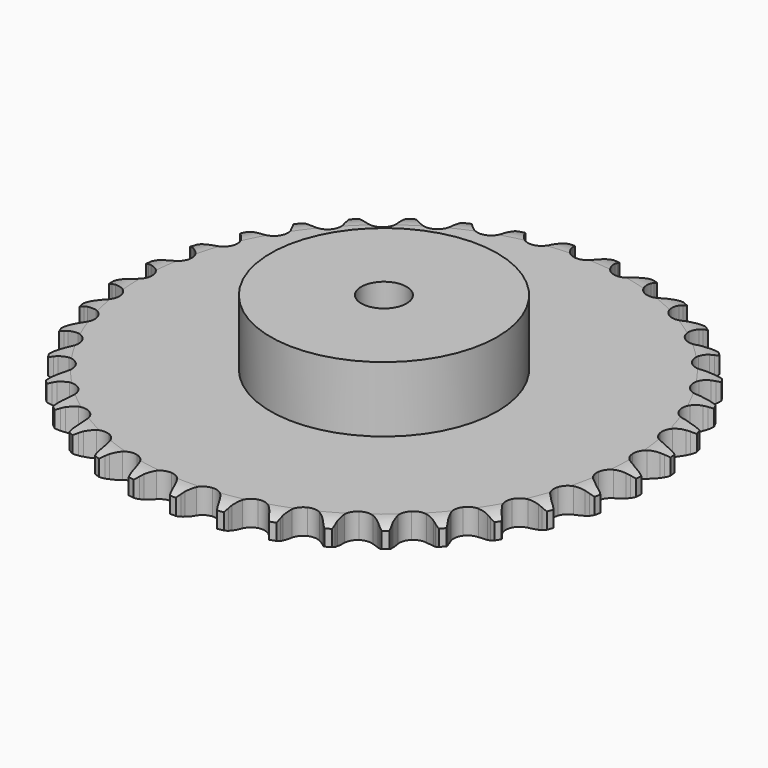
from build123d import *

# Parameters (mm, degrees)
PAD_DEPTH         = 11.1
SKETCH001_R       = 50
PAD001_DEPTH      = 40
SKETCH002_R       = 10
POCKET_DEPTH      = 0.001
POCKET_DEPTH_BACK = 40.001


with BuildPart() as part:
    # Sprocket → Pad (new body)
    with BuildSketch(Plane.XY):
        with BuildLine():
            ThreePointArc((-10.038333, 117.941871), (-8.627159, 116.235604), (-7.635, 114.256115))
            Line((-7.635, 114.256115), (-7.046288, 112.650437))
            ThreePointArc((-7.046288, 112.650437), (-6.115619, 110.585078), (-4.898442, 108.674493))
            ThreePointArc((-4.898442, 108.674493), (-2.741289, 106.862258), (0, 106.211991))
            ThreePointArc((0, 106.211991), (2.741289, 106.862258), (4.898442, 108.674493))
            ThreePointArc((4.898442, 108.674493), (6.115619, 110.585078), (7.046288, 112.650437))
            Line((7.046288, 112.650437), (7.635, 114.256115))
            ThreePointArc((7.635, 114.256115), (8.627159, 116.235604), (10.038333, 117.941871))
            ThreePointArc((10.038333, 117.941871), (11.140847, 116.021658), (11.7842, 113.902967))
            Line((11.7842, 113.902967), (12.093082, 112.220891))
            ThreePointArc((12.093082, 112.220891), (12.661318, 110.027957), (13.538096, 107.93915))
            ThreePointArc((13.538096, 107.93915), (15.357952, 105.788422), (17.949914, 104.684229))
            ThreePointArc((17.949914, 104.684229), (20.761667, 104.861861), (23.194061, 106.283469))
            Line((23.194061, 106.283469), (25.98295, 109.839234))
            ThreePointArc((25.98295, 109.839234), (26.388619, 110.59234), (26.834555, 111.322324))
            ThreePointArc((26.834555, 111.322324), (28.146978, 113.105664), (29.826213, 114.548898))
            ThreePointArc((29.826213, 114.548898), (30.588351, 112.46998), (30.86439, 110.273037))
            Line((30.86439, 110.273037), (30.884557, 108.562955))
            ThreePointArc((30.884557, 108.562955), (31.074011, 106.305532), (31.585168, 104.098595))
            ThreePointArc((31.585168, 104.098595), (33.015371, 101.671245), (35.383441, 100.144891))
            ThreePointArc((35.383441, 100.144891), (38.18477, 99.84478), (40.822429, 100.834863))
            Line((40.822429, 100.834863), (44.17213, 103.868157))
            ThreePointArc((44.17213, 103.868157), (44.699239, 104.541871), (45.262128, 105.185992))
            ThreePointArc((45.262128, 105.185992), (46.857059, 106.721879), (48.756048, 107.860562))
            ThreePointArc((48.756048, 107.860562), (49.155885, 105.682745), (49.056667, 103.470752))
            Line((49.056667, 103.470752), (48.787539, 101.78186))
            ThreePointArc((48.787539, 101.78186), (48.592762, 99.52489), (48.723592, 97.263312))
            ThreePointArc((48.723592, 97.263312), (49.722999, 94.629172), (51.799051, 92.724567))
            ThreePointArc((51.799051, 92.724567), (54.509366, 91.955347), (57.27641, 92.485421))
            Line((57.27641, 92.485421), (61.090558, 94.908982))
            ThreePointArc((61.090558, 94.908982), (61.723943, 95.483924), (62.387593, 96.02365))
            ThreePointArc((62.387593, 96.02365), (64.219148, 97.267901), (66.28326, 98.069273))
            ThreePointArc((66.28326, 98.069273), (66.309293, 95.85521), (65.837674, 93.691803))
            Line((65.837674, 93.691803), (65.286993, 92.072687))
            ThreePointArc((65.286993, 92.072687), (64.713587, 89.881099), (64.460327, 87.629941))
            ThreePointArc((64.460327, 87.629941), (65.000187, 84.86479), (66.724497, 82.636727))
            ThreePointArc((66.724497, 82.636727), (69.265828, 81.420525), (72.082653, 81.475342))
            Line((72.082653, 81.475342), (76.251521, 83.219448))
            ThreePointArc((76.251521, 83.219448), (76.972962, 83.679077), (77.718279, 84.098883))
            ThreePointArc((77.718279, 84.098883), (79.733769, 85.015702), (81.903623, 85.456711))
            ThreePointArc((81.903623, 85.456711), (81.555103, 83.270095), (80.72465, 81.21751))
            Line((80.72465, 81.21751), (79.908259, 79.71475))
            ThreePointArc((79.908259, 79.71475), (78.972721, 77.651591), (78.342655, 75.475616))
            ThreePointArc((78.342655, 75.475616), (78.407437, 72.659002), (79.7304, 70.171578))
            ThreePointArc((79.7304, 70.171578), (82.029637, 68.543383), (84.815209, 68.121366))
            Line((84.815209, 68.121366), (89.218868, 69.135843))
            ThreePointArc((89.218868, 69.135843), (90.007609, 69.466936), (90.813153, 69.754744))
            ThreePointArc((90.813153, 69.754744), (92.954595, 70.317756), (95.167768, 70.385714))
            ThreePointArc((95.167768, 70.385714), (94.454721, 68.289451), (93.289325, 66.406738))
            Line((93.289325, 66.406738), (92.230709, 65.063564))
            ThreePointArc((92.230709, 65.063564), (90.959952, 63.188189), (89.971209, 61.149995))
            ThreePointArc((89.971209, 61.149995), (89.559049, 58.362947), (90.442605, 55.687721))
            ThreePointArc((90.442605, 55.687721), (92.433604, 53.694373), (95.107786, 52.807662))
            Line((95.107786, 52.807662), (99.61955, 53.063325))
            ThreePointArc((99.61955, 53.063325), (100.4529, 53.256358), (101.295498, 53.403889))
            ThreePointArc((101.295498, 53.403889), (103.501286, 53.596896), (105.69411, 53.289849))
            ThreePointArc((105.69411, 53.289849), (104.637049, 51.344244), (103.170237, 49.685565))
            Line((103.170237, 49.685565), (101.89985, 48.540619))
            ThreePointArc((101.89985, 48.540619), (100.330432, 46.906978), (99.011454, 45.0652))
            ThreePointArc((99.011454, 45.0652), (98.134209, 42.387897), (98.552941, 39.601829))
            ThreePointArc((98.552941, 39.601829), (100.178424, 37.300673), (102.664286, 35.974778))
            Line((102.664286, 35.974778), (107.154358, 35.464272))
            ThreePointArc((107.154358, 35.464272), (108.008345, 35.513691), (108.863755, 35.5167))
            ThreePointArc((108.863755, 35.5167), (111.070434, 35.334152), (113.179825, 34.660932))
            ThreePointArc((113.179825, 34.660932), (111.80916, 32.921957), (110.083128, 31.535029))
            Line((110.083128, 31.535029), (108.637518, 30.621248))
            ThreePointArc((108.637518, 30.621248), (106.814588, 29.276339), (105.20332, 27.683961))
            ThreePointArc((105.20332, 27.683961), (103.886227, 25.193423), (103.828089, 22.376665))
            ThreePointArc((103.828089, 22.376665), (105.041293, 19.833901), (107.26732, 18.106965))
            Line((107.26732, 18.106965), (111.606531, 16.844976))
            ThreePointArc((111.606531, 16.844976), (112.456586, 16.74936), (113.3002, 16.607761))
            ThreePointArc((113.3002, 16.607761), (115.444287, 16.054908), (117.409562, 15.034883))
            ThreePointArc((117.409562, 15.034883), (115.764725, 13.552565), (113.829128, 12.477288))
            Line((113.829128, 12.477288), (112.249882, 11.820959))
            ThreePointArc((112.249882, 11.820959), (110.225883, 10.803472), (108.368678, 9.506305))
            ThreePointArc((108.368678, 9.506305), (106.649628, 7.274181), (106.116291, 4.507765))
            ThreePointArc((106.116291, 4.507765), (106.882315, 1.796544), (108.78447, -0.281752))
            Line((108.78447, -0.281752), (112.847988, -2.258919))
            ThreePointArc((112.847988, -2.258919), (113.669656, -2.49682), (114.477205, -2.778954))
            ThreePointArc((114.477205, -2.778954), (116.497019, -3.686207), (118.26164, -5.023693))
            ThreePointArc((118.26164, -5.023693), (116.389949, -6.20671), (114.300472, -6.939403))
            Line((114.300472, -6.939403), (112.633021, -7.319396))
            ThreePointArc((112.633021, -7.319396), (110.466179, -7.98019), (108.416467, -8.94483))
            ThreePointArc((108.416467, -8.94483), (106.344913, -10.854326), (105.351721, -13.490816))
            ThreePointArc((105.351721, -13.490816), (105.648528, -16.292496), (107.172088, -18.662364))
            Line((107.172088, -18.662364), (110.843013, -21.297829))
            ThreePointArc((110.843013, -21.297829), (111.612657, -21.67117), (112.36091, -22.085722))
            ThreePointArc((112.36091, -22.085722), (114.198343, -23.321276), (115.711546, -24.937746))
            ThreePointArc((115.711546, -24.937746), (113.666847, -25.787429), (111.483599, -26.156459))
            Line((111.483599, -26.156459), (109.775914, -26.249187))
            ThreePointArc((109.775914, -26.249187), (107.528565, -26.534278), (105.345311, -27.138639))
            ThreePointArc((105.345311, -27.138639), (102.980848, -28.670574), (101.556373, -31.10129))
            ThreePointArc((101.556373, -31.10129), (101.375424, -33.912831), (102.47656, -36.506094))
            Line((102.47656, -36.506094), (105.649287, -39.72404))
            ThreePointArc((105.649287, -39.72404), (106.344765, -40.222081), (107.012195, -40.757125))
            ThreePointArc((107.012195, -40.757125), (108.614389, -42.285434), (109.832641, -44.134385))
            ThreePointArc((109.832641, -44.134385), (107.673756, -44.626291), (105.459546, -44.621042))
            Line((105.459546, -44.621042), (103.760753, -44.423836))
            ThreePointArc((103.760753, -44.423836), (101.49755, -44.325022), (99.243562, -44.551718))
            ThreePointArc((99.243562, -44.551718), (96.654212, -45.662021), (94.839434, -47.817036))
            ThreePointArc((94.839434, -47.817036), (94.185935, -50.557556), (94.832968, -53.29961))
            Line((94.832968, -53.29961), (97.416223, -57.007461))
            ThreePointArc((97.416223, -57.007461), (98.017528, -57.615875), (98.584934, -58.25602))
            ThreePointArc((98.584934, -58.25602), (99.905797, -60.033118), (100.794051, -62.061359))
            ThreePointArc((100.794051, -62.061359), (98.583087, -62.181335), (96.401613, -61.801959))
            Line((96.401613, -61.801959), (94.760585, -61.320491))
            ThreePointArc((94.760585, -61.320491), (92.546635, -60.840616), (90.286757, -60.683126))
            ThreePointArc((90.286757, -60.683126), (87.54701, -61.339856), (85.394136, -63.157174))
            ThreePointArc((85.394136, -63.157174), (84.286887, -65.747832), (84.461204, -68.559793))
            Line((84.461204, -68.559793), (86.380671, -72.650883))
            ThreePointArc((86.380671, -72.650883), (86.870505, -73.352166), (87.321565, -74.078995))
            ThreePointArc((87.321565, -74.078995), (88.323097, -76.053758), (88.8558, -78.20294))
            ThreePointArc((88.8558, -78.20294), (86.656363, -77.947536), (84.570382, -77.204946))
            Line((84.570382, -77.204946), (83.034327, -76.453069))
            ThreePointArc((83.034327, -76.453069), (80.933322, -75.605936), (78.732566, -75.06879))
            ThreePointArc((78.732566, -75.06879), (75.92124, -75.253054), (73.492205, -76.680394))
            ThreePointArc((73.492205, -76.680394), (71.96306, -79.046662), (71.659646, -81.847635))
            Line((71.659646, -81.847635), (72.860105, -86.20427))
            ThreePointArc((72.860105, -86.20427), (73.224375, -86.978248), (73.546113, -87.770852))
            ThreePointArc((73.546113, -87.770852), (74.199502, -89.88647), (74.361329, -92.094765))
            ThreePointArc((74.361329, -92.094765), (72.236692, -91.471328), (70.306215, -90.386887))
            Line((70.306215, -90.386887), (68.919322, -89.38623))
            ThreePointArc((68.919322, -89.38623), (66.991705, -88.196212), (64.913383, -87.294862))
            ThreePointArc((64.913383, -87.294862), (62.111354, -87.001359), (59.476037, -87.99766))
            ThreePointArc((59.476037, -87.99766), (57.568986, -90.071464), (56.796569, -92.78087))
            Line((56.796569, -92.78087), (57.243486, -97.277718))
            ThreePointArc((57.243486, -97.277718), (57.471714, -98.102125), (57.654873, -98.937702))
            ThreePointArc((57.654873, -98.937702), (57.941323, -101.133311), (57.727618, -103.337191))
            ThreePointArc((57.727618, -103.337191), (55.738904, -102.363656), (54.019466, -100.968562))
            Line((54.019466, -100.968562), (52.821634, -99.747913))
            ThreePointArc((52.821634, -99.747913), (51.122858, -98.249243), (49.22676, -97.00962))
            ThreePointArc((49.22676, -97.00962), (46.514638, -96.246794), (43.748852, -96.783393))
            ThreePointArc((43.748852, -96.783393), (41.518757, -98.505074), (40.299559, -101.044969))
            Line((40.299559, -101.044969), (39.980077, -105.552662))
            ThreePointArc((39.980077, -105.552662), (40.065696, -106.403782), (40.105007, -107.258294))
            ThreePointArc((40.105007, -107.258294), (40.016277, -109.470732), (39.433189, -111.606794))
            ThreePointArc((39.433189, -111.606794), (37.637608, -110.311169), (36.178675, -108.645555))
            Line((36.178675, -108.645555), (35.204364, -107.240029))
            ThreePointArc((35.204364, -107.240029), (33.783299, -105.475822), (32.123972, -103.933588))
            ThreePointArc((32.123972, -103.933588), (29.57978, -102.723383), (26.763092, -102.784843))
            ThreePointArc((26.763092, -102.784843), (24.274109, -104.104872), (22.643204, -106.402188))
            Line((22.643204, -106.402188), (21.566513, -110.791049))
            ThreePointArc((21.566513, -110.791049), (21.507061, -111.644396), (21.401393, -112.49326))
            ThreePointArc((21.401393, -112.49326), (20.940036, -114.658879), (20.004339, -116.665674))
            ThreePointArc((20.004339, -116.665674), (18.453548, -115.08523), (17.29709, -113.197013))
            Line((17.29709, -113.197013), (16.574328, -111.647045))
            ThreePointArc((16.574328, -111.647045), (15.471857, -109.668053), (14.097036, -107.867575))
            ThreePointArc((14.097036, -107.867575), (11.793966, -106.244808), (9.007406, -105.829361))
            ThreePointArc((9.007406, -105.829361), (6.33114, -106.709763), (4.335445, -108.698409))
            Line((4.335445, -108.698409), (2.532521, -112.842179))
            ThreePointArc((2.532521, -112.842179), (2.329707, -113.673204), (2.082101, -114.492))
            ThreePointArc((2.082101, -114.492), (1.261388, -116.548498), (0, -118.368294))
            ThreePointArc((0, -118.368294), (-1.261388, -116.548498), (-2.082101, -114.492))
            Line((-2.082101, -114.492), (-2.532521, -112.842179))
            ThreePointArc((-2.532521, -112.842179), (-3.284682, -110.705335), (-4.335445, -108.698409))
            ThreePointArc((-4.335445, -108.698409), (-6.33114, -106.709763), (-9.007406, -105.829361))
            ThreePointArc((-9.007406, -105.829361), (-11.793966, -106.244808), (-14.097036, -107.867575))
            Line((-14.097036, -107.867575), (-16.574328, -111.647045))
            ThreePointArc((-16.574328, -111.647045), (-16.914668, -112.431841), (-17.29709, -113.197013))
            ThreePointArc((-17.29709, -113.197013), (-18.453548, -115.08523), (-20.004339, -116.665674))
            ThreePointArc((-20.004339, -116.665674), (-20.940036, -114.658879), (-21.401393, -112.49326))
            Line((-21.401393, -112.49326), (-21.566513, -110.791049))
            ThreePointArc((-21.566513, -110.791049), (-21.946728, -108.557825), (-22.643204, -106.402188))
            ThreePointArc((-22.643204, -106.402188), (-24.274109, -104.104872), (-26.763092, -102.784843))
            ThreePointArc((-26.763092, -102.784843), (-29.57978, -102.723383), (-32.123972, -103.933588))
            Line((-32.123972, -103.933588), (-35.204364, -107.240029))
            ThreePointArc((-35.204364, -107.240029), (-35.67244, -107.956018), (-36.178675, -108.645555))
            ThreePointArc((-36.178675, -108.645555), (-37.637608, -110.311169), (-39.433189, -111.606794))
            ThreePointArc((-39.433189, -111.606794), (-40.016277, -109.470732), (-40.105007, -107.258294))
            Line((-40.105007, -107.258294), (-39.980077, -105.552662))
            ThreePointArc((-39.980077, -105.552662), (-39.977405, -103.287305), (-40.299559, -101.044969))
            ThreePointArc((-40.299559, -101.044969), (-41.518757, -98.505074), (-43.748852, -96.783393))
            ThreePointArc((-43.748852, -96.783393), (-46.514638, -96.246794), (-49.22676, -97.00962))
            Line((-49.22676, -97.00962), (-52.821634, -99.747913))
            ThreePointArc((-52.821634, -99.747913), (-53.40398, -100.374498), (-54.019466, -100.968562))
            ThreePointArc((-54.019466, -100.968562), (-55.738904, -102.363656), (-57.727618, -103.337191))
            ThreePointArc((-57.727618, -103.337191), (-57.941323, -101.133311), (-57.654873, -98.937702))
            Line((-57.654873, -98.937702), (-57.243486, -97.277718))
            ThreePointArc((-57.243486, -97.277718), (-56.858006, -95.045396), (-56.796569, -92.78087))
            ThreePointArc((-56.796569, -92.78087), (-57.568986, -90.071464), (-59.476037, -87.99766))
            ThreePointArc((-59.476037, -87.99766), (-62.111354, -87.001359), (-64.913383, -87.294862))
            Line((-64.913383, -87.294862), (-68.919322, -89.38623))
            ThreePointArc((-68.919322, -89.38623), (-69.599185, -89.905385), (-70.306215, -90.386887))
            ThreePointArc((-70.306215, -90.386887), (-72.236692, -91.471328), (-74.361329, -92.094765))
            ThreePointArc((-74.361329, -92.094765), (-74.199502, -89.88647), (-73.546113, -87.770852))
            Line((-73.546113, -87.770852), (-72.860105, -86.20427))
            ThreePointArc((-72.860105, -86.20427), (-72.102905, -84.069205), (-71.659646, -81.847635))
            ThreePointArc((-71.659646, -81.847635), (-71.96306, -79.046662), (-73.492205, -76.680394))
            ThreePointArc((-73.492205, -76.680394), (-75.92124, -75.253054), (-78.732566, -75.06879))
            Line((-78.732566, -75.06879), (-83.034327, -76.453069))
            ThreePointArc((-83.034327, -76.453069), (-83.792148, -76.849859), (-84.570382, -77.204946))
            ThreePointArc((-84.570382, -77.204946), (-86.656363, -77.947536), (-88.8558, -78.20294))
            ThreePointArc((-88.8558, -78.20294), (-88.323097, -76.053758), (-87.321565, -74.078995))
            Line((-87.321565, -74.078995), (-86.380671, -72.650883))
            ThreePointArc((-86.380671, -72.650883), (-85.273535, -70.674496), (-84.461204, -68.559793))
            ThreePointArc((-84.461204, -68.559793), (-84.286887, -65.747832), (-85.394136, -63.157174))
            ThreePointArc((-85.394136, -63.157174), (-87.54701, -61.339856), (-90.286757, -60.683126))
            Line((-90.286757, -60.683126), (-94.760585, -61.320491))
            ThreePointArc((-94.760585, -61.320491), (-95.574563, -61.583502), (-96.401613, -61.801959))
            ThreePointArc((-96.401613, -61.801959), (-98.583087, -62.181335), (-100.794051, -62.061359))
            ThreePointArc((-100.794051, -62.061359), (-99.905797, -60.033118), (-98.584934, -58.25602))
            Line((-98.584934, -58.25602), (-97.416223, -57.007461))
            ThreePointArc((-97.416223, -57.007461), (-95.991001, -55.24661), (-94.832968, -53.29961))
            ThreePointArc((-94.832968, -53.29961), (-94.185935, -50.557556), (-94.839434, -47.817036))
            ThreePointArc((-94.839434, -47.817036), (-96.654212, -45.662021), (-99.243562, -44.551718))
            Line((-99.243562, -44.551718), (-103.760753, -44.423836))
            ThreePointArc((-103.760753, -44.423836), (-104.607472, -44.5455), (-105.459546, -44.621042))
            ThreePointArc((-105.459546, -44.621042), (-107.673756, -44.626291), (-109.832641, -44.134385))
            ThreePointArc((-109.832641, -44.134385), (-108.614389, -42.285434), (-107.012195, -40.757125))
            Line((-107.012195, -40.757125), (-105.649287, -39.72404))
            ThreePointArc((-105.649287, -39.72404), (-103.94698, -38.22938), (-102.47656, -36.506094))
            ThreePointArc((-102.47656, -36.506094), (-101.375424, -33.912831), (-101.556373, -31.10129))
            ThreePointArc((-101.556373, -31.10129), (-102.980848, -28.670574), (-105.345311, -27.138639))
            Line((-105.345311, -27.138639), (-109.775914, -26.249187))
            ThreePointArc((-109.775914, -26.249187), (-110.631015, -26.226005), (-111.483599, -26.156459))
            ThreePointArc((-111.483599, -26.156459), (-113.666847, -25.787429), (-115.711546, -24.937746))
            ThreePointArc((-115.711546, -24.937746), (-114.198343, -23.321276), (-112.36091, -22.085722))
            Line((-112.36091, -22.085722), (-110.843013, -21.297829))
            ThreePointArc((-110.843013, -21.297829), (-108.912594, -20.112361), (-107.172088, -18.662364))
            ThreePointArc((-107.172088, -18.662364), (-105.648528, -16.292496), (-105.351721, -13.490816))
            ThreePointArc((-105.351721, -13.490816), (-106.344913, -10.854326), (-108.416467, -8.94483))
            Line((-108.416467, -8.94483), (-112.633021, -7.319396))
            ThreePointArc((-112.633021, -7.319396), (-113.471905, -7.152035), (-114.300472, -6.939403))
            ThreePointArc((-114.300472, -6.939403), (-116.389949, -6.20671), (-118.26164, -5.023693))
            ThreePointArc((-118.26164, -5.023693), (-116.497019, -3.686207), (-114.477205, -2.778954))
            Line((-114.477205, -2.778954), (-112.847988, -2.258919))
            ThreePointArc((-112.847988, -2.258919), (-110.744991, -1.416745), (-108.78447, -0.281752))
            ThreePointArc((-108.78447, -0.281752), (-106.882315, 1.796544), (-106.116291, 4.507765))
            ThreePointArc((-106.116291, 4.507765), (-106.649628, 7.274181), (-108.368678, 9.506305))
            Line((-108.368678, 9.506305), (-112.249882, 11.820959))
            ThreePointArc((-112.249882, 11.820959), (-113.048415, 12.127685), (-113.829128, 12.477288))
            ThreePointArc((-113.829128, 12.477288), (-115.764725, 13.552565), (-117.409562, 15.034883))
            ThreePointArc((-117.409562, 15.034883), (-115.444287, 16.054908), (-113.3002, 16.607761))
            Line((-113.3002, 16.607761), (-111.606531, 16.844976))
            ThreePointArc((-111.606531, 16.844976), (-109.391456, 17.319628), (-107.26732, 18.106965))
            ThreePointArc((-107.26732, 18.106965), (-105.041293, 19.833901), (-103.828089, 22.376665))
            ThreePointArc((-103.828089, 22.376665), (-103.886227, 25.193423), (-105.20332, 27.683961))
            Line((-105.20332, 27.683961), (-108.637518, 30.621248))
            ThreePointArc((-108.637518, 30.621248), (-109.372728, 31.058514), (-110.083128, 31.535029))
            ThreePointArc((-110.083128, 31.535029), (-111.80916, 32.921957), (-113.179825, 34.660932))
            ThreePointArc((-113.179825, 34.660932), (-111.070434, 35.334152), (-108.863755, 35.5167))
            Line((-108.863755, 35.5167), (-107.154358, 35.464272))
            ThreePointArc((-107.154358, 35.464272), (-104.890928, 35.557747), (-102.664286, 35.974778))
            ThreePointArc((-102.664286, 35.974778), (-100.178424, 37.300673), (-98.552941, 39.601829))
            ThreePointArc((-98.552941, 39.601829), (-98.134209, 42.387897), (-99.011454, 45.0652))
            Line((-99.011454, 45.0652), (-101.89985, 48.540619))
            ThreePointArc((-101.89985, 48.540619), (-102.550586, 49.095847), (-103.170237, 49.685565))
            ThreePointArc((-103.170237, 49.685565), (-104.637049, 51.344244), (-105.69411, 53.289849))
            ThreePointArc((-105.69411, 53.289849), (-103.501286, 53.596896), (-101.295498, 53.403889))
            Line((-101.295498, 53.403889), (-99.61955, 53.063325))
            ThreePointArc((-99.61955, 53.063325), (-97.37288, 52.772934), (-95.107786, 52.807662))
            ThreePointArc((-95.107786, 52.807662), (-92.433604, 53.694373), (-90.442605, 55.687721))
            ThreePointArc((-90.442605, 55.687721), (-89.559049, 58.362947), (-89.971209, 61.149995))
            Line((-89.971209, 61.149995), (-92.230709, 65.063564))
            ThreePointArc((-92.230709, 65.063564), (-92.778251, 65.720781), (-93.289325, 66.406738))
            ThreePointArc((-93.289325, 66.406738), (-94.454721, 68.289451), (-95.167768, 70.385714))
            ThreePointArc((-95.167768, 70.385714), (-92.954595, 70.317756), (-90.813153, 69.754744))
            Line((-90.813153, 69.754744), (-89.218868, 69.135843))
            ThreePointArc((-89.218868, 69.135843), (-87.05359, 68.46994), (-84.815209, 68.121366))
            ThreePointArc((-84.815209, 68.121366), (-82.029637, 68.543383), (-79.7304, 70.171578))
            ThreePointArc((-79.7304, 70.171578), (-78.407437, 72.659002), (-78.342655, 75.475616))
            Line((-78.342655, 75.475616), (-79.908259, 79.71475))
            ThreePointArc((-79.908259, 79.71475), (-80.336854, 80.455048), (-80.72465, 81.21751))
            ThreePointArc((-80.72465, 81.21751), (-81.555103, 83.270095), (-81.903623, 85.456711))
            ThreePointArc((-81.903623, 85.456711), (-79.733769, 85.015702), (-77.718279, 84.098883))
            Line((-77.718279, 84.098883), (-76.251521, 83.219448))
            ThreePointArc((-76.251521, 83.219448), (-74.229928, 82.19719), (-72.082653, 81.475342))
            ThreePointArc((-72.082653, 81.475342), (-69.265828, 81.420525), (-66.724497, 82.636727))
            ThreePointArc((-66.724497, 82.636727), (-65.000187, 84.86479), (-64.460327, 87.629941))
            Line((-64.460327, 87.629941), (-65.286993, 92.072687))
            ThreePointArc((-65.286993, 92.072687), (-65.584313, 92.874769), (-65.837674, 93.691803))
            ThreePointArc((-65.837674, 93.691803), (-66.309293, 95.85521), (-66.28326, 98.069273))
            ThreePointArc((-66.28326, 98.069273), (-64.219148, 97.267901), (-62.387593, 96.02365))
            Line((-62.387593, 96.02365), (-61.090558, 94.908982))
            ThreePointArc((-61.090558, 94.908982), (-59.270805, 93.559777), (-57.27641, 92.485421))
            ThreePointArc((-57.27641, 92.485421), (-54.509366, 91.955347), (-51.799051, 92.724567))
            ThreePointArc((-51.799051, 92.724567), (-49.722999, 94.629172), (-48.723592, 97.263312))
            Line((-48.723592, 97.263312), (-48.787539, 101.78186))
            ThreePointArc((-48.787539, 101.78186), (-48.94503, 102.622653), (-49.056667, 103.470752))
            ThreePointArc((-49.056667, 103.470752), (-49.155885, 105.682745), (-48.756048, 107.860562))
            ThreePointArc((-48.756048, 107.860562), (-46.857059, 106.721879), (-45.262128, 105.185992))
            Line((-45.262128, 105.185992), (-44.17213, 103.868157))
            ThreePointArc((-44.17213, 103.868157), (-42.606569, 102.23082), (-40.822429, 100.834863))
            ThreePointArc((-40.822429, 100.834863), (-38.18477, 99.84478), (-35.383441, 100.144891))
            ThreePointArc((-35.383441, 100.144891), (-33.015371, 101.671245), (-31.585168, 104.098595))
            Line((-31.585168, 104.098595), (-30.884557, 108.562955))
            ThreePointArc((-30.884557, 108.562955), (-30.897688, 109.41827), (-30.86439, 110.273037))
            ThreePointArc((-30.86439, 110.273037), (-30.588351, 112.46998), (-29.826213, 114.548898))
            ThreePointArc((-29.826213, 114.548898), (-28.146978, 113.105664), (-26.834555, 111.322324))
            Line((-26.834555, 111.322324), (-25.98295, 109.839234))
            ThreePointArc((-25.98295, 109.839234), (-24.71662, 107.960868), (-23.194061, 106.283469))
            ThreePointArc((-23.194061, 106.283469), (-20.761667, 104.861861), (-17.949914, 104.684229))
            ThreePointArc((-17.949914, 104.684229), (-15.357952, 105.788422), (-13.538096, 107.93915))
            Line((-13.538096, 107.93915), (-12.093082, 112.220891))
            ThreePointArc((-12.093082, 112.220891), (-11.961475, 113.066122), (-11.7842, 113.902967))
            ThreePointArc((-11.7842, 113.902967), (-11.140847, 116.021658), (-10.038333, 117.941871))
        make_face()
    extrude(amount=PAD_DEPTH)

    # Sketch → Groove (revolve, cut)
    with BuildSketch(Plane.XZ):
        with BuildLine():
            Line((107.964719, 0), (116.45, 0))
            Line((124.935281, 0), (116.45, 0))
            Line((124.935281, 11.1), (124.935281, 0))
            Line((116.45, 11.1), (124.935281, 11.1))
            Line((107.964719, 11.1), (116.45, 11.1))
            ThreePointArc((116.45, 9.1), (112.323618, 10.593242), (107.964719, 11.1))
            Line((116.45, 2), (116.45, 9.1))
            ThreePointArc((107.964719, 0), (112.323618, 0.506758), (116.45, 2))
        make_face()
    revolve(axis=Axis((0, 0, 0), (0, 0, 1)), mode=Mode.SUBTRACT)

    # Sketch001 → Pad001 (join)
    with BuildSketch(Plane.XY):
        Circle(SKETCH001_R)
    extrude(amount=PAD001_DEPTH)

    # Sketch002 → Pocket (cut, two sides)
    with BuildSketch(Plane.XY) as pocket_sk:
        Circle(SKETCH002_R)
    extrude(amount=-POCKET_DEPTH, mode=Mode.SUBTRACT)
    extrude(pocket_sk.sketch, amount=POCKET_DEPTH_BACK, mode=Mode.SUBTRACT)


solid = part.part
